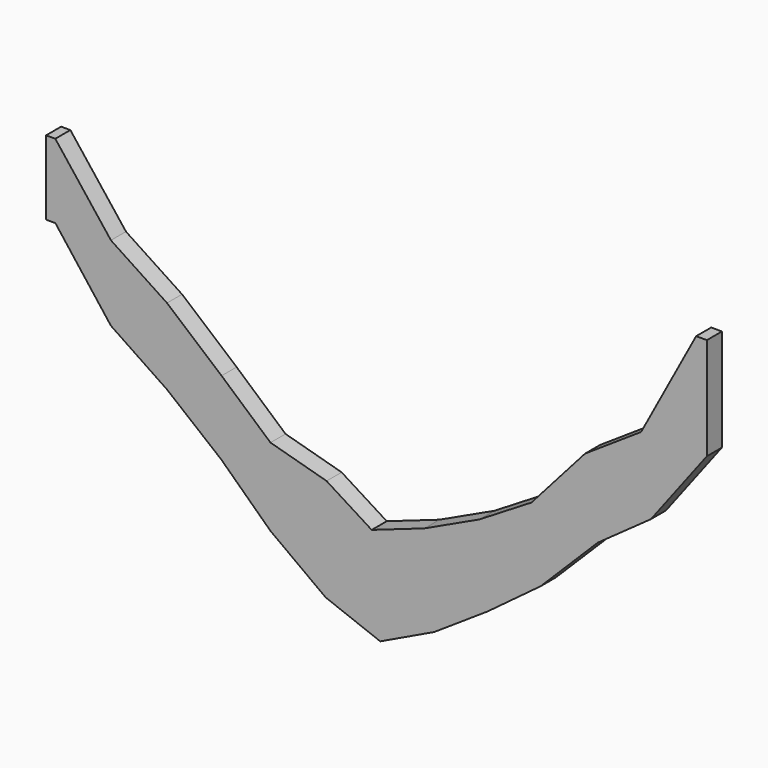
from build123d import *

# Parameters (mm, degrees)
F1_DEPTH = 69.85


with BuildPart() as f1:
    # F0 (on Front) → F1 (new body)
    with BuildSketch(Plane.XZ):
        Polygon((34.240745, 0), (0, 0), (0, -275.443484), (34.497394, -275.443484), (240.645002, -543.875941), (448.495547, -684.17508), (649.41774, -846.991347), (832.630063, -1021.444028), (1037.278898, -1171.9579), (1239.830113, -1249.602586), (1440.130793, -1153.953358), (1638.180849, -1022.295137), (1835.149327, -875.788812), (2046.774541, -664.770517), (2243.819749, -524.116405), (2451.589502, -250.926116), (2451.589502, 128.347414), (2411.798384, 128.347414), (2207.607823, -250.926116), (1999.461758, -389.39711), (1800.971875, -613.636968), (1607.846743, -731.657984), (1403.992202, -827.147738), (1208.098327, -895.891619), (1040.701508, -790.577856), (832.630063, -732.906654), (651.100822, -573.538512), (448.606835, -401.716945), (240.645002, -264.636357), align=None)
    extrude(amount=F1_DEPTH)


solid = f1.part
